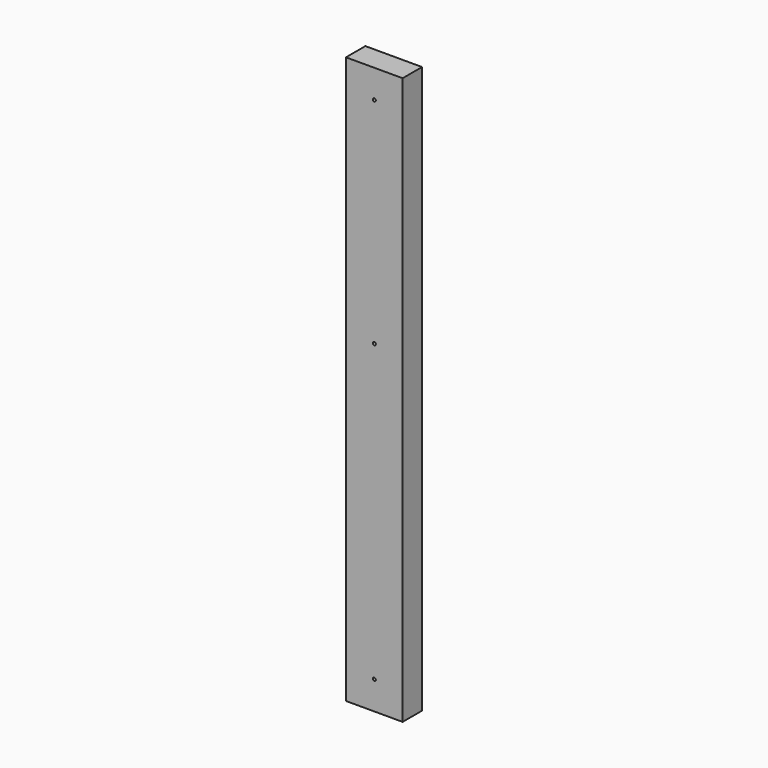
from build123d import *

# Parameters (mm, degrees)
SKETCH001_AS_DRAWN_R                 = 2.38125
EXTRUDE001_DEPTH                     = 76.2
EXTRUDE001_ONTO_SKETCH001_ROLL_ANGLE = 90
SKETCH_W                             = 88.9
SKETCH_H                             = 38.1
EXTRUDE_DEPTH                        = 889


with BuildPart() as extrude001:
    # Sketch001 as drawn → Extrude001 (new)
    with BuildSketch(Plane.XY):
        with Locations((44.45, 44.45)):
            Circle(SKETCH001_AS_DRAWN_R)
        with Locations((44.45, 844.55)):
            Circle(SKETCH001_AS_DRAWN_R)
        with Locations((44.45, 508)):
            Circle(SKETCH001_AS_DRAWN_R)
    extrude(amount=-EXTRUDE001_DEPTH)


with BuildPart() as extrude001_1:
    # Extrude001 onto Sketch001 roll: moved
    add(extrude001.part.rotate(Axis((0, 0, 0), (1, 0, 0)), EXTRUDE001_ONTO_SKETCH001_ROLL_ANGLE))


with BuildPart() as extrude001_2:
    # Extrude001 onto Sketch001 placement: moved
    add(extrude001_1.part)


with BuildPart() as cut:
    # Sketch → Extrude (new body)
    with BuildSketch(Plane.XY):
        with Locations((44.45, 19.05)):
            Rectangle(SKETCH_W, SKETCH_H)
    extrude(amount=EXTRUDE_DEPTH)

    # Cut: cut Extrude001
    add(extrude001_2.part, mode=Mode.SUBTRACT)


solid = cut.part
